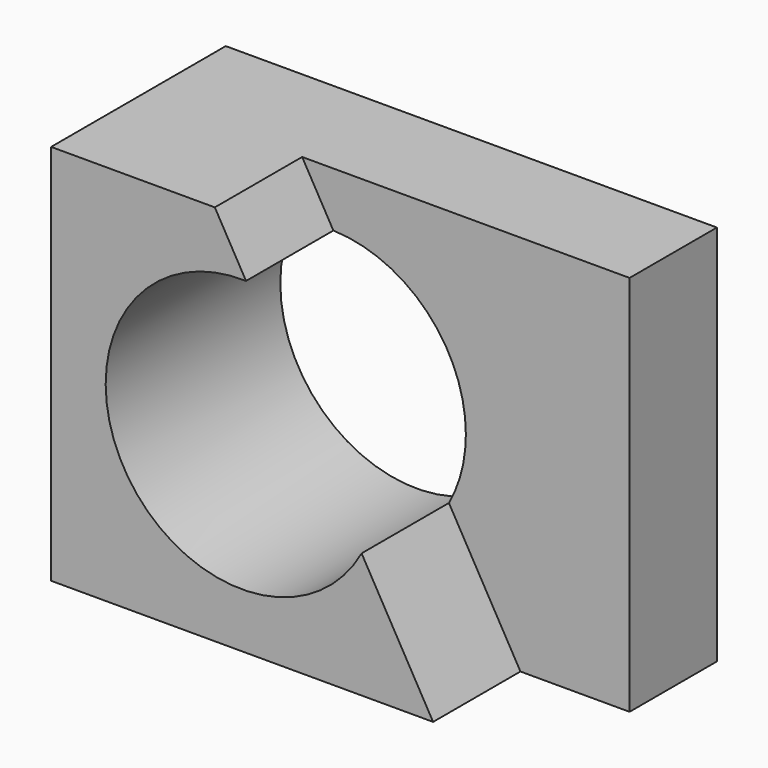
from build123d import *

# Parameters (mm, degrees)
F0_W     = 57.15
F0_H     = 44.45
F2_DEPTH = 25.4
F4_DEPTH = 12.7
F6_DEPTH = 25.4


with BuildPart() as f2:
    # F0 (on Front) → F2 (new body)
    with BuildSketch(Plane.XZ):
        with Locations((28.575, 22.225)):
            Rectangle(F0_W, F0_H)
    extrude(amount=F2_DEPTH)

    # F3 (on face) → F4 (cut)
    with BuildSketch(Plane.XZ.offset(25.4)):
        Polygon((19.05, 44.45), (44.45, 0), (57.15, 0), (57.15, 44.45), align=None)
    extrude(amount=-F4_DEPTH, mode=Mode.SUBTRACT)

    # F5 (on face) → F6 (cut)
    with BuildSketch(Plane.XZ.offset(25.4)):
        with BuildLine():
            ThreePointArc((36.128433, 14.562743), (37.599209, 18.269078), (38.1, 22.225))
            ThreePointArc((38.1, 22.225), (33.610865, 33.287446), (22.682337, 38.093411))
            Line((22.682337, 38.093411), (36.128433, 14.562743))
        make_face()
        with BuildLine():
            Line((36.128433, 14.562743), (22.682337, 38.093411))
            ThreePointArc((22.682337, 38.093411), (8.44164, 14.348794), (36.128433, 14.562743))
        make_face()
    extrude(amount=-F6_DEPTH, mode=Mode.SUBTRACT)


solid = f2.part
